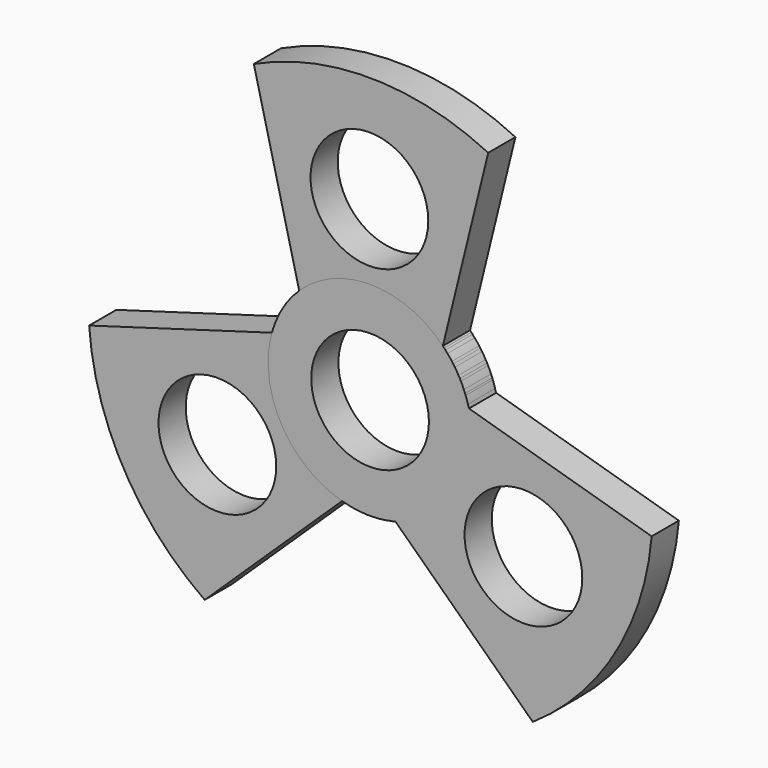
from build123d import *

# Parameters (mm, degrees)
F0_R     = 10.9982
F1_DEPTH = 6.35
F2_COUNT = 3


with BuildPart() as f1:
    # F0 (on Front) → F1 (new body)
    with BuildSketch(Plane.XZ):
        with BuildLine():
            Line((13.604425, 7.499367), (22.084142, 42.033524))
            ThreePointArc((22.084142, 42.033524), (0.220224, 47.177378), (-21.724648, 42.390653))
            Line((-21.724648, 42.390653), (-13.244931, 7.856497))
            ThreePointArc((-13.244931, 7.856497), (0.253366, 13.212686), (13.604425, 7.499367))
        make_face()
        with Locations((-0.120965, 27.184371)):
            Circle(F0_R, mode=Mode.SUBTRACT)
        with BuildLine():
            ThreePointArc((19.05, -5.835629), (17.636139, 1.366392), (13.604425, 7.499367))
            ThreePointArc((13.604425, 7.499367), (0.253366, 13.212686), (-13.244931, 7.856497))
            ThreePointArc((-13.244931, 7.856497), (-7.435946, -23.374421), (19.05, -5.835629))
        make_face()
        with Locations((0, -5.835629)):
            Circle(F0_R, mode=Mode.SUBTRACT)
    extrude(amount=F1_DEPTH)


with BuildPart() as f2_1:
    # F2: instance of F1
    add(f1.part.rotate(Axis((0, 0, -5.835629), (0, -1, 0)), 1 * 360 / F2_COUNT))


with BuildPart() as f2_2:
    # F2: instance of F1
    add(f1.part.rotate(Axis((0, 0, -5.835629), (0, -1, 0)), 2 * 360 / F2_COUNT))


solid = Compound([f1.part, f2_1.part, f2_2.part])
